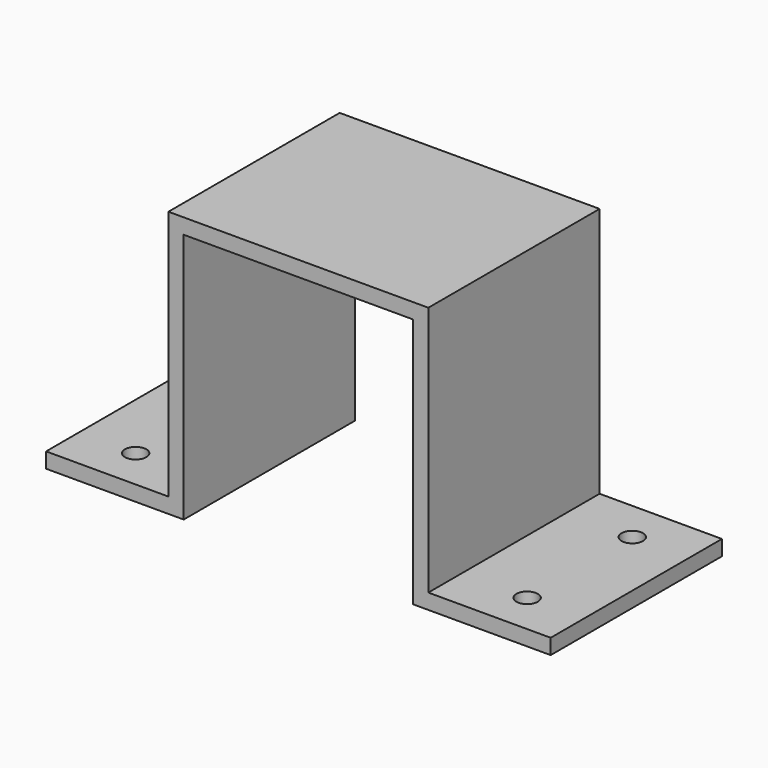
from build123d import *

# Parameters (mm, degrees)
F1_DEPTH = 88.9
F2_R     = 4.445
F3_DEPTH = 6.351


with BuildPart() as f1:
    # F0 (on Front) → F1 (new body)
    with BuildSketch(Plane.XZ):
        Polygon((0, 104.14), (0, 0), (-50.8, 0), (-50.8, -6.35), (6.35, -6.35), (6.35, 0), (6.35, 97.79), (101.6, 97.79), (101.6, 0), (101.6, -6.35), (158.75, -6.35), (158.75, 0), (107.95, 0), (107.95, 75.717971), (107.95, 104.14), align=None)
    extrude(amount=F1_DEPTH)

    # F2 (on face) → F3 (cut, through all)
    with BuildSketch(Plane.XY):
        with Locations((-27.305, -17.145)):
            Circle(F2_R)
        with Locations((-27.305, -71.755)):
            Circle(F2_R)
        with Locations((135.255, -71.755)):
            Circle(F2_R)
        with Locations((135.255, -17.145)):
            Circle(F2_R)
    extrude(amount=-F3_DEPTH, mode=Mode.SUBTRACT)


solid = f1.part
